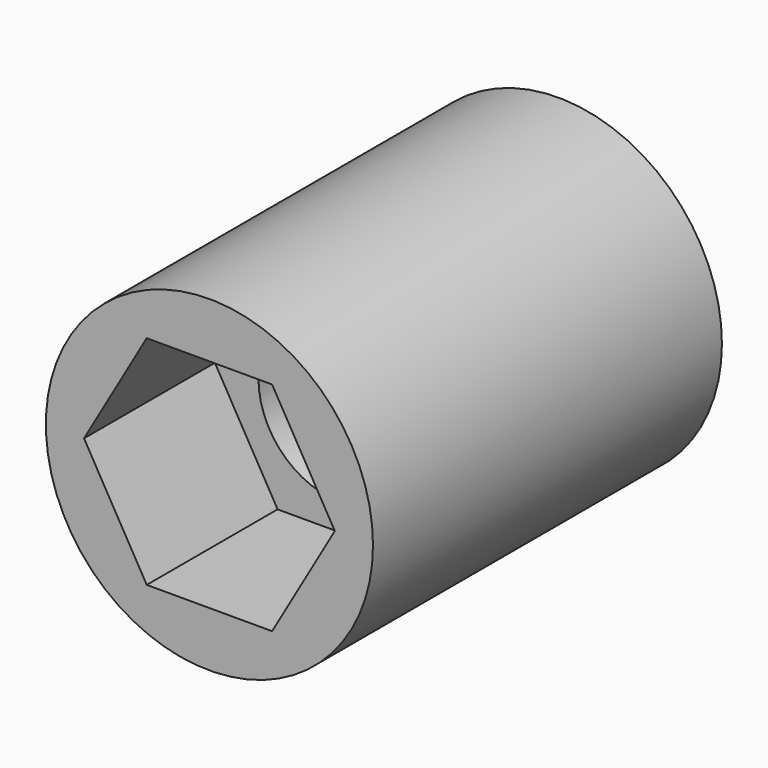
from build123d import *

# Parameters (mm, degrees)
F0_R     = 9.525
F1_DEPTH = 25.4
F3_DEPTH = 25.401
F4_DEPTH = 12.7
F6_DEPTH = 9.525


with BuildPart() as f1:
    # F0 (on Front) → F1 (new body)
    with BuildSketch(Plane.XZ):
        Circle(F0_R)
    extrude(amount=F1_DEPTH)

    # F2 (on face) → F3 (cut, through all)
    with BuildSketch(Plane(origin=(0, 0, 0), x_dir=(-1, 0, 0), z_dir=(0, 1, 0))):
        with BuildLine():
            ThreePointArc((-4.7625, 0), (-3.367596, -3.367596), (0, -4.7625))
            ThreePointArc((0, -4.7625), (3.367596, -3.367596), (4.7625, 0))
            ThreePointArc((4.7625, 0), (3.367596, 3.367596), (0, 4.7625))
            ThreePointArc((0, 4.7625), (-3.367596, 3.367596), (-4.7625, 0))
        make_face()
    extrude(amount=-F3_DEPTH, mode=Mode.SUBTRACT)

    # F2 (on face) → F4 (cut)
    with BuildSketch(Plane(origin=(0, 0, 0), x_dir=(-1, 0, 0), z_dir=(0, 1, 0))):
        with BuildLine():
            Line((-4.7625, 0), (-4.7625, -4.7625))
            Line((-4.7625, -4.7625), (0, -4.7625))
            ThreePointArc((0, -4.7625), (-3.367596, -3.367596), (-4.7625, 0))
        make_face()
        with BuildLine():
            ThreePointArc((4.7625, 0), (3.367596, -3.367596), (0, -4.7625))
            Line((0, -4.7625), (4.7625, -4.7625))
            Line((4.7625, -4.7625), (4.7625, 0))
        make_face()
        with BuildLine():
            Line((-4.7625, 4.7625), (-4.7625, 0))
            ThreePointArc((-4.7625, 0), (-3.367596, 3.367596), (0, 4.7625))
            Line((0, 4.7625), (-4.7625, 4.7625))
        make_face()
        with BuildLine():
            ThreePointArc((0, 4.7625), (3.367596, 3.367596), (4.7625, 0))
            Line((4.7625, 0), (4.7625, 4.7625))
            Line((4.7625, 4.7625), (0, 4.7625))
        make_face()
    extrude(amount=-F4_DEPTH, mode=Mode.SUBTRACT)

    # F5 (on face) → F6 (cut)
    with BuildSketch(Plane.XZ.offset(25.4)):
        Polygon((3.65125, 6.324151), (-3.65125, 6.324151), (-7.3025, 0), (-3.65125, -6.324151), (3.65125, -6.324151), (7.3025, 0), align=None)
    extrude(amount=-F6_DEPTH, mode=Mode.SUBTRACT)


solid = f1.part
